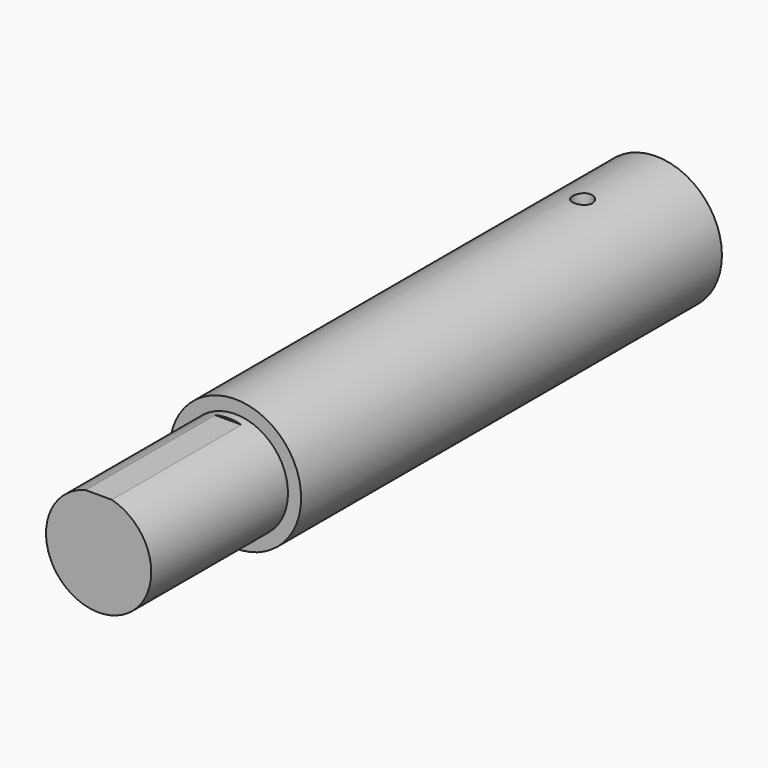
from build123d import *

# Parameters (mm, degrees)
F0_R      = 25
F1_DEPTH  = 200
F2_R      = 20
F3_DEPTH  = 65
F4_W      = 10
F4_H      = 3.1937984634
F5_DEPTH  = 61.7
F7_D      = 24.16
F7_DEPTH  = 75
F7_TIP    = 7.2583962779
F8_W      = 10
F8_H      = 5.6645046324
F9_DEPTH  = 70
F11_R     = 2
F12_DEPTH = 25
F13_R     = 3.75
F14_DEPTH = 6


with BuildPart() as f1:
    # F0 (on Front) → F1 (new body)
    with BuildSketch(Plane.XZ):
        Circle(F0_R)
    extrude(amount=F1_DEPTH)

    # F2 (on face) → F3 (join)
    with BuildSketch(Plane.XZ.offset(200)):
        Circle(F2_R)
    extrude(amount=F3_DEPTH)

    # F4 (on face) → F5 (cut)
    with BuildSketch(Plane.XZ.offset(265)):
        with Locations((0, 20.9618159628)):
            Rectangle(F4_W, F4_H)
    extrude(amount=-F5_DEPTH, mode=Mode.SUBTRACT)

    # F7
    with Locations(Plane(origin=(0, 0, 0), x_dir=(-1, 0, 0), z_dir=(0, 1, 0))):
        with Locations((0, 0)):
            Hole(F7_D / 2, depth=F7_DEPTH)
            with Locations((0, 0, -(F7_DEPTH + F7_TIP / 2))):  # 118° drill point
                Cone(0, F7_D / 2, F7_TIP, mode=Mode.SUBTRACT)

    # F8 (on face) → F9 (cut)
    with BuildSketch(Plane(origin=(0, 0, 0), x_dir=(-1, 0, 0), z_dir=(0, 1, 0))):
        with Locations((0, 11.6677476838)):
            Rectangle(F8_W, F8_H)
    extrude(amount=-F9_DEPTH, mode=Mode.SUBTRACT)

    # F11 (on offset) → F12 (cut)
    with BuildSketch(Plane.XY.offset(25)):
        with Locations((0, -35)):
            Circle(F11_R)
    extrude(amount=-F12_DEPTH, mode=Mode.SUBTRACT)

    # F13 (on offset) → F14 (cut)
    with BuildSketch(Plane.XY.offset(25)):
        with Locations((0, -34.9959954619)):
            Circle(F13_R)
    extrude(amount=-F14_DEPTH, mode=Mode.SUBTRACT)


solid = f1.part
